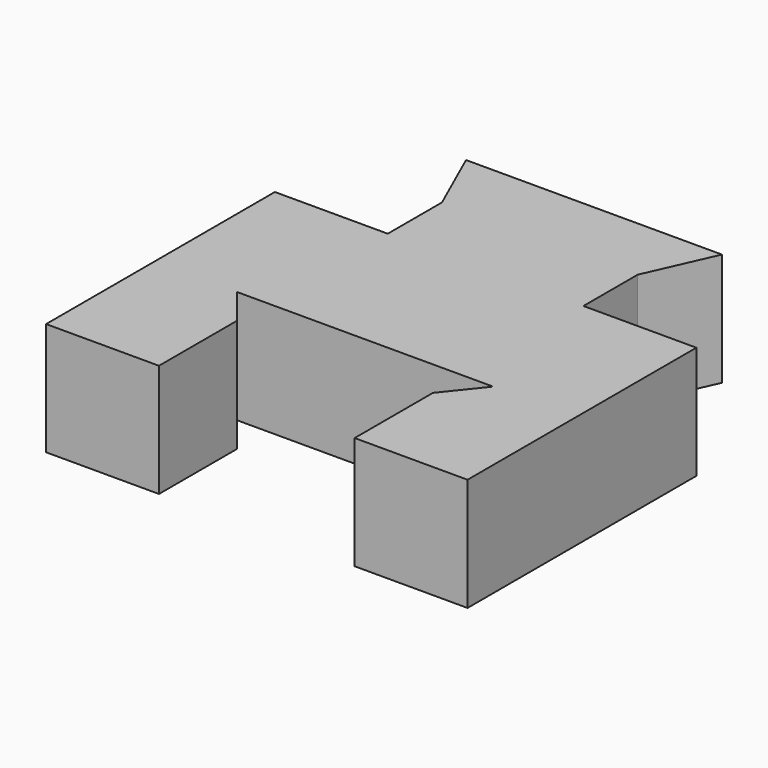
from build123d import *

# Parameters (mm, degrees)
F1_DEPTH = 7.5


with BuildPart() as f1:
    # F0 (on Top) → F1 (new body)
    with BuildSketch(Plane.XY):
        Polygon((-39.919153, -35.884313), (-32.419153, -35.884313), (-32.419153, -29.384313), (-34.419153, -26.884313), (-17.419153, -26.884313), (-19.419153, -29.384313), (-19.419153, -35.884313), (-11.919153, -35.884313), (-11.919153, -16.884313), (-19.419153, -16.884313), (-19.419153, -12.384313), (-17.419153, -7.884313), (-34.419153, -7.884313), (-32.419153, -12.384313), (-32.419153, -16.884313), (-39.919153, -16.884313), align=None)
    extrude(amount=F1_DEPTH)


solid = f1.part
